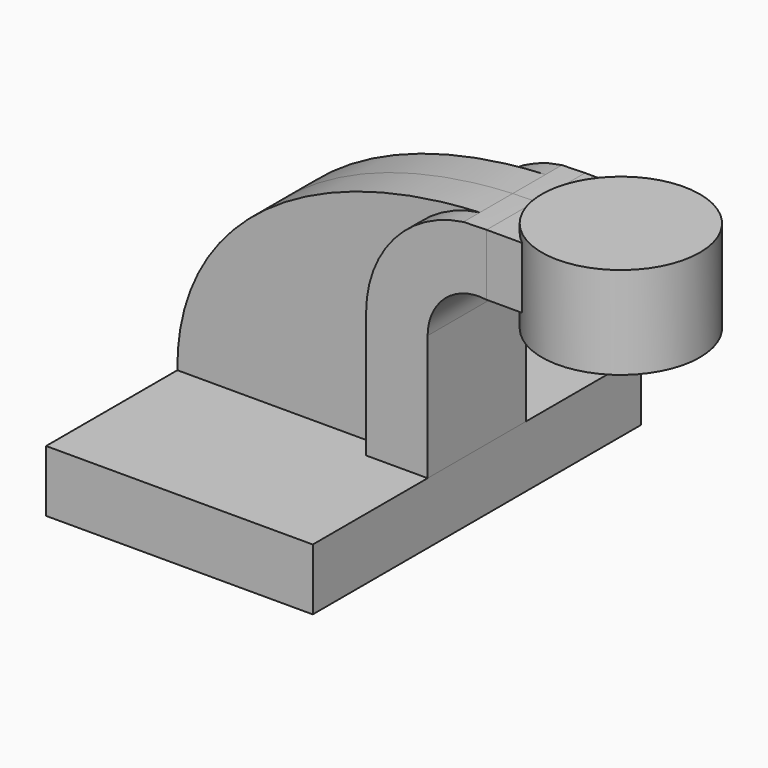
from build123d import *

# Parameters (mm, degrees)
F1_DEPTH = 63.5
F2_DEPTH = 38.1
F3_DEPTH = 19.05
F4_DEPTH = 12.7
F6_DEPTH = 25.4


with BuildPart() as f1:
    # F0 (on Front) → F1 (new body, symmetric)
    with BuildSketch(Plane.XZ):
        Polygon((62.319098, -20.856281), (62.319098, -1.806281), (43.269098, -1.806281), (-20.230902, -1.806281), (-20.230902, -20.856281), align=None)
    extrude(amount=F1_DEPTH, both=True)

    # F0 (on Front) → F2 (cut, symmetric)
    with BuildSketch(Plane.XZ):
        with BuildLine():
            Line((80.557601, 74.393719), (80.557601, 71.879739))
            ThreePointArc((80.557601, 71.879739), (80.986412, 71.848001), (81.4148, 71.810985))
            Line((81.4148, 71.810985), (106.89038, 71.810985))
            Line((106.89038, 71.810985), (106.89038, 74.393719))
            Line((106.89038, 74.393719), (80.557601, 74.393719))
        make_face()
    extrude(amount=F2_DEPTH, both=True, mode=Mode.SUBTRACT)


with BuildPart() as f3:
    # F0 (on Front) → F3 (new body, symmetric)
    with BuildSketch(Plane.XZ):
        with BuildLine():
            Line((43.269098, -1.806281), (62.319098, -1.806281))
            Line((62.319098, -1.806281), (62.319098, 37.034805))
            ThreePointArc((62.319098, 37.034805), (67.76364, 49.00231), (80.362711, 52.760985))
            Line((80.362711, 52.760985), (80.557601, 52.760985))
            Line((80.557601, 52.760985), (80.557601, 71.809276))
            add(Edge.make_bspline(
                [(73.406428, 71.630091), (75.764734, 71.738608), (78.149213, 71.798616), (80.557601, 71.809276)],
                knots=[119.648063, 119.648063, 119.648063, 119.648063, 124.883926, 124.883926, 124.883926, 124.883926], degree=3))
            ThreePointArc((73.406428, 71.630091), (51.860042, 59.975448), (43.269098, 37.034805))
            Line((43.269098, 37.034805), (43.269098, -1.806281))
        make_face()
    extrude(amount=F3_DEPTH, both=True)


with BuildPart() as f4:
    # F0 (on Front) → F4 (new body, symmetric)
    with BuildSketch(Plane.XZ):
        with BuildLine():
            Line((-20.230902, -1.806281), (43.269098, -1.806281))
            Line((43.269098, -1.806281), (43.269098, 37.034805))
            ThreePointArc((43.269098, 37.034805), (51.860042, 59.975448), (73.406428, 71.630091))
            add(Edge.make_bspline(
                [(-20.230902, -1.806281), (-20.707842, 41.33873), (19.515271, 69.150292), (73.406428, 71.630091)],
                knots=[0, 0, 0, 0, 119.648063, 119.648063, 119.648063, 119.648063], degree=3))
        make_face()
    extrude(amount=F4_DEPTH, both=True)


with BuildPart() as f5:
    # F0 (on Front) → F5 (revolve)
    with BuildSketch(Plane.XZ):
        Polygon((106.89038, 71.810985), (106.89038, 45.818719), (131.357601, 45.818719), (131.357601, 74.393719), (106.89038, 74.393719), align=None)
    revolve(axis=Axis((106.89038, 0, 60.106219), (0, 0, -1)))


with BuildPart() as f6:
    # F3_face (on face) → F6 (new body)
    with BuildSketch(Plane(origin=(80.557601, 0, 62.28513), x_dir=(0, 1, 0), z_dir=(1, 0, 0))):
        Polygon((-19.05, -9.524145), (19.05, -9.524145), (19.05, 9.524145), (0, 9.524145), (-19.05, 9.524145), align=None)
    extrude(amount=F6_DEPTH)


solid = Compound([f1.part, f3.part, f4.part, f5.part, f6.part])
